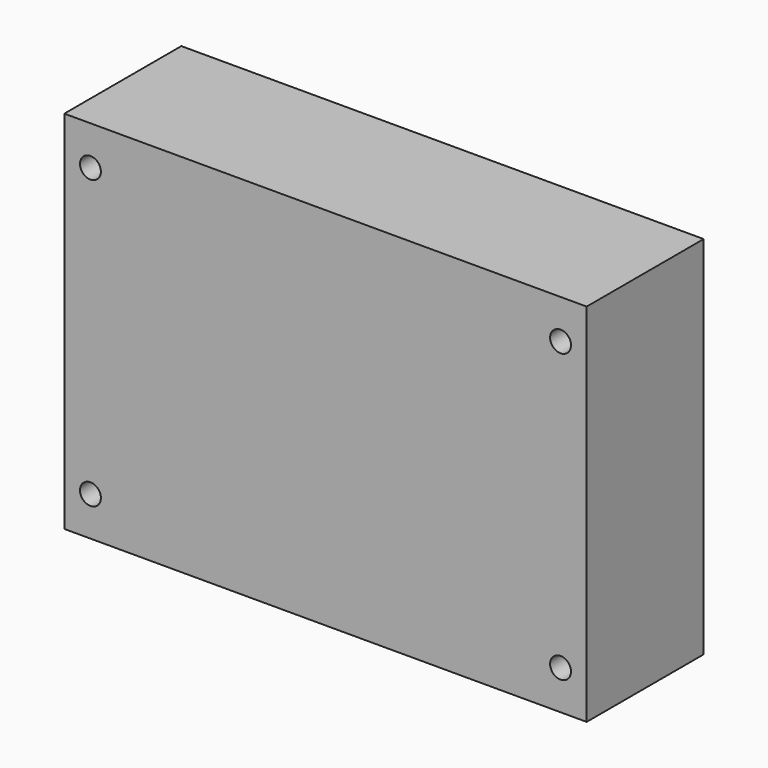
from build123d import *

# Parameters (mm, degrees)
F0_W     = 90
F0_H     = 55
F0_H_2   = 7.5
F0_W_2   = 5
F1_DEPTH = 28
F2_D     = 4


with BuildPart() as f1:
    # F0 (on Front) → F1 (new body)
    with BuildSketch(Plane.XZ):
        with Locations((-73.0443269014, -38.9222615957)):
            Rectangle(F0_W, F0_H)
        with Locations((-73.0443269014, -7.6722615957)):
            Rectangle(F0_W, F0_H_2)
        with Locations((-25.5443269014, -38.9222615957)):
            Rectangle(F0_W_2, F0_H)
        with Locations((-25.5443269014, -7.6722615957)):
            Rectangle(F0_W_2, F0_H_2)
        with Locations((-73.0443269014, -70.1722615957)):
            Rectangle(F0_W, F0_H_2)
        with Locations((-120.5443269014, -38.9222615957)):
            Rectangle(F0_W_2, F0_H)
        with Locations((-120.5443269014, -7.6722615957)):
            Rectangle(F0_W_2, F0_H_2)
        with Locations((-120.5443269014, -70.1722615957)):
            Rectangle(F0_W_2, F0_H_2)
        with Locations((-25.5443269014, -70.1722615957)):
            Rectangle(F0_W_2, F0_H_2)
    extrude(amount=F1_DEPTH)

    # F2 (through all)
    with Locations(Plane(origin=(0, 0, 0), x_dir=(1, 0, 0), z_dir=(0, 1, 0))):
        with Locations((-118.0443269014, 11.4222615957), (-28.0443269014, 11.4222615957), (-118.0443269014, 66.4222615957), (-28.0443269014, 66.4222615957)):
            Hole(F2_D / 2)


solid = f1.part
